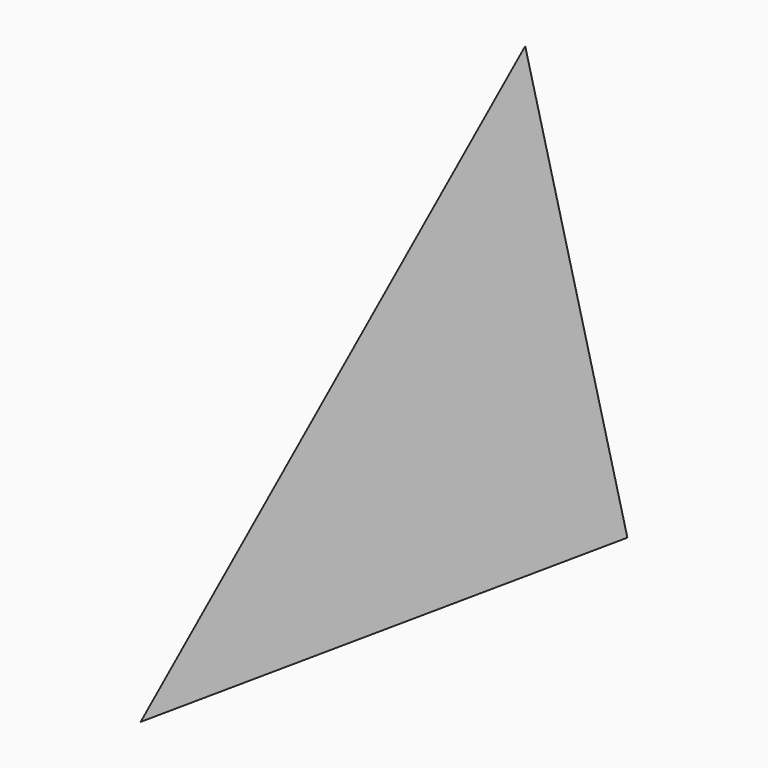
from build123d import *


with BuildPart() as f2:
    # F0 (on Top) → F2 section 0
    with BuildSketch(Plane.XY, mode=Mode.PRIVATE) as f2_s0:
        Polygon((16.632935, 0), (-16.632935, 0), (0, -78.251808), align=None)
    loft([f2_s0.sketch, Vertex(0, 0, 65.032378)])


solid = f2.part
